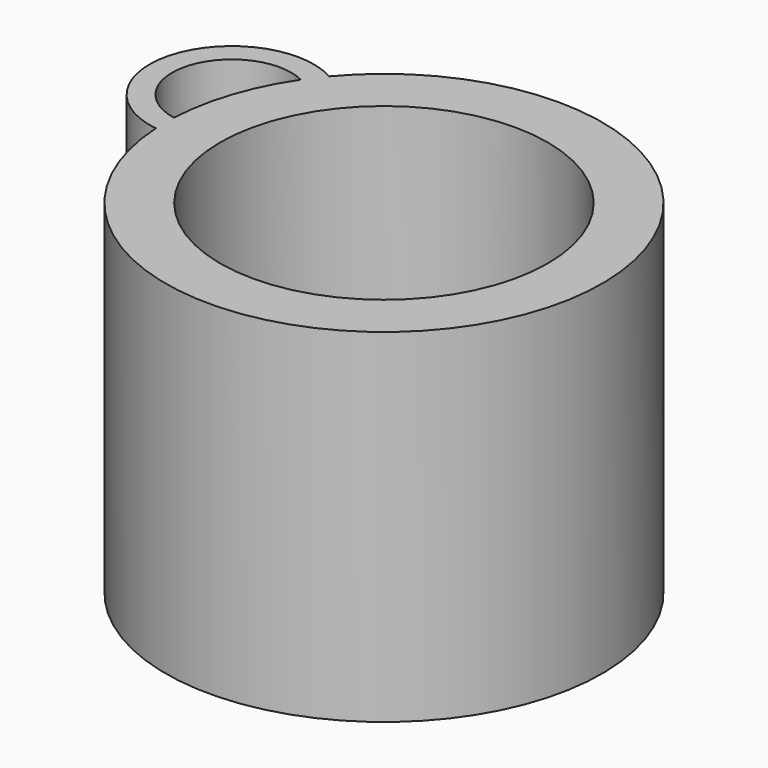
from build123d import *

# Parameters (mm, degrees)
F1_DEPTH = 65.43193
F2_R     = 31.223032
F3_DEPTH = 109.98878
F5_DEPTH = 101.69795


with BuildPart() as f1:
    # F0 (on Top) → F1 (new body)
    with BuildSketch(Plane.XY):
        with BuildLine():
            ThreePointArc((-73.905277, -18.434329), (-96.395829, -27.169836), (-83.585647, -47.615697))
            ThreePointArc((-83.585647, -47.615697), (-2.563987, -58.296785), (-73.905277, -18.434329))
        make_face()
    extrude(amount=F1_DEPTH)

    # F2 (on face) → F3 (cut)
    with BuildSketch(Plane.XY.offset(65.43193)):
        with Locations((-42.051967, -45.19739)):
            Circle(F2_R)
    extrude(amount=-F3_DEPTH, mode=Mode.SUBTRACT)

    # F4 (on face) → F5 (cut)
    with BuildSketch(Plane.XY.offset(65.43193)):
        with BuildLine():
            ThreePointArc((-83.611005, -43.263185), (-81.539948, -32.097995), (-76.527057, -21.908703))
            ThreePointArc((-76.527057, -21.908703), (-92.318031, -28.522569), (-83.611005, -43.263185))
        make_face()
    extrude(amount=-F5_DEPTH, mode=Mode.SUBTRACT)


solid = f1.part
